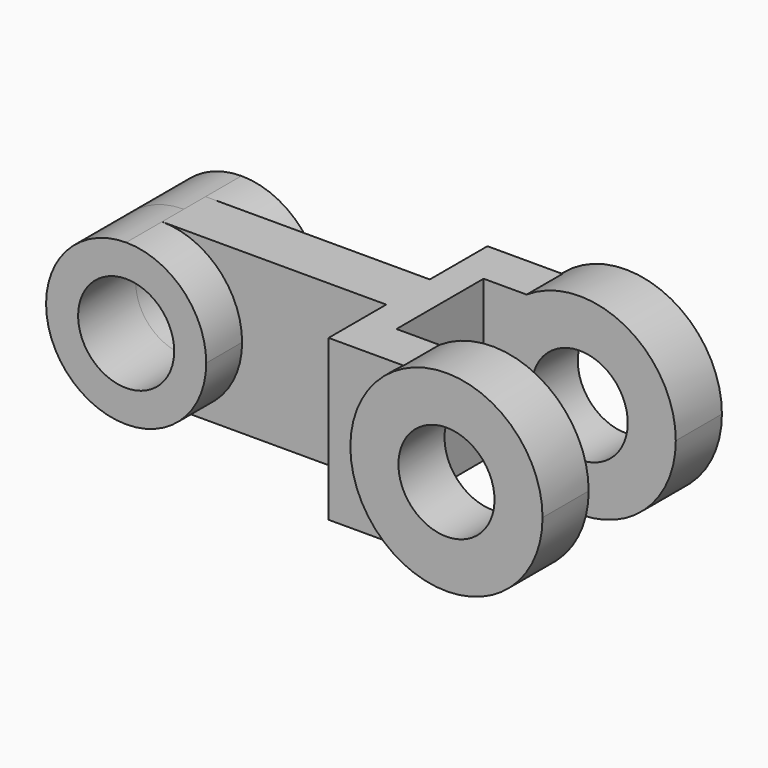
from build123d import *

# Parameters (mm, degrees)
F1_DEPTH = 22.5
F2_DEPTH = 8.5
F0_W     = 10
F0_H     = 50
F3_DEPTH = 17
F6_DEPTH = 14
F7_DEPTH = 18


with BuildPart() as f1:
    # F0 (on Front) → F1 (new body, symmetric)
    with BuildSketch(Plane.XZ):
        with BuildLine():
            Line((0, 15), (0, 25))
            ThreePointArc((0, 25), (-25, 0), (0, -25))
            Line((0, -25), (0, -15))
            ThreePointArc((0, -15), (-15, 0), (0, 15))
        make_face()
        with BuildLine():
            ThreePointArc((0, -25), (17.6776695297, -17.6776695297), (25, 0))
            ThreePointArc((25, 0), (17.6776695297, 17.6776695297), (0, 25))
            Line((0, 25), (0, 15))
            ThreePointArc((0, 15), (10.6066017178, 10.6066017178), (15, 0))
            ThreePointArc((15, 0), (10.6066017178, -10.6066017178), (0, -15))
            Line((0, -15), (0, -25))
        make_face()
    extrude(amount=F1_DEPTH, both=True)

    # F0 (on Front) → F2 (join, symmetric)
    with BuildSketch(Plane.XZ):
        with BuildLine():
            ThreePointArc((0, 25), (17.6776695297, 17.6776695297), (25, 0))
            ThreePointArc((25, 0), (17.6776695297, -17.6776695297), (0, -25))
            Line((0, -25), (70, -25))
            Line((70, -25), (70, 25))
            Line((70, 25), (0, 25))
        make_face()
    extrude(amount=F2_DEPTH, both=True)

    # F0 (on Front) → F3 (join, symmetric)
    with BuildSketch(Plane.XZ):
        with Locations((75, 0)):
            Rectangle(F0_W, F0_H)
    extrude(amount=F3_DEPTH, both=True)

    # F5 (on offset) → F6 (join)
    with BuildSketch(Plane.XZ.offset(17)):
        with BuildLine():
            Line((93.4168760482, 25), (70, 25))
            Line((70, 25), (70, -25))
            Line((70, -25), (93.4168760482, -25))
            ThreePointArc((93.4168760482, -25), (80, 0), (93.4168760482, 25))
        make_face()
    extrude(amount=F6_DEPTH)

    # F5 (on offset) → F7 (join)
    with BuildSketch(Plane.XZ.offset(17)):
        with BuildLine():
            Line((110, 25), (93.4168760482, 25))
            ThreePointArc((93.4168760482, 25), (80, 0), (93.4168760482, -25))
            Line((93.4168760482, -25), (110, -25))
            Line((110, -25), (110, -15))
            ThreePointArc((110, -15), (95, 0), (110, 15))
            Line((110, 15), (110, 25))
        make_face()
        with BuildLine():
            ThreePointArc((140, 0), (124.1863716546, 26.4338203685), (93.4168760482, 25))
            Line((93.4168760482, 25), (110, 25))
            Line((110, 25), (110, 15))
            ThreePointArc((110, 15), (120.6066017178, 10.6066017178), (125, 0))
            ThreePointArc((125, 0), (120.6066017178, -10.6066017178), (110, -15))
            Line((110, -15), (110, -25))
            Line((110, -25), (93.4168760482, -25))
            ThreePointArc((93.4168760482, -25), (124.1863716546, -26.4338203685), (140, 0))
        make_face()
    extrude(amount=F7_DEPTH)

    # F8: F1 across plane


with BuildPart() as f1_1:
    add(f1.part)
    add(f1.part.mirror(Plane.XZ))


solid = f1_1.part
